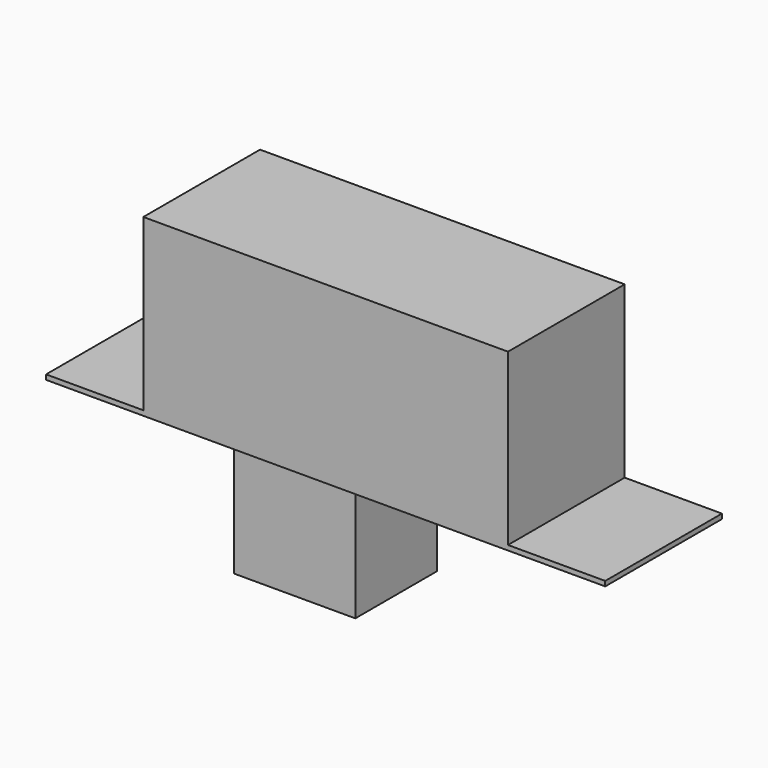
from build123d import *

# Parameters (mm, degrees)
F0_W     = 23
F0_H     = 6
F1_DEPTH = 0.2
F2_W     = 15
F2_H     = 6
F3_DEPTH = 7
F4_W     = 9
F4_H     = 4.2
F5_DEPTH = 0.2
F6_W     = 5
F6_H     = 4.2
F7_DEPTH = 5.3


with BuildPart() as f1:
    # F0 (on Top) → F1 (new body)
    with BuildSketch(Plane.XY):
        with Locations((-18.463512, -8.357231)):
            Rectangle(F0_W, F0_H)
    extrude(amount=F1_DEPTH)

    # F2 (on face) → F3 (join)
    with BuildSketch(Plane.XY.offset(0.2)):
        with Locations((-18.463512, -8.357231)):
            Rectangle(F2_W, F2_H)
    extrude(amount=F3_DEPTH)

    # F4 (on face) → F5 (cut)
    with BuildSketch(Plane(origin=(0, 0, 0), x_dir=(1, 0, 0), z_dir=(0, 0, -1))):
        with Locations((-18.463512, 8.357231)):
            Rectangle(F4_W, F4_H)
    extrude(amount=-F5_DEPTH, mode=Mode.SUBTRACT)

    # F6 (on face) → F7 (join)
    with BuildSketch(Plane(origin=(0, 0, 0.2), x_dir=(1, 0, 0), z_dir=(0, 0, -1))):
        with Locations((-20.463512, 8.357231)):
            Rectangle(F6_W, F6_H)
        with Locations((-20.463512, 8.357231)):
            Rectangle(F6_W, F6_H)
    extrude(amount=F7_DEPTH)


solid = f1.part
